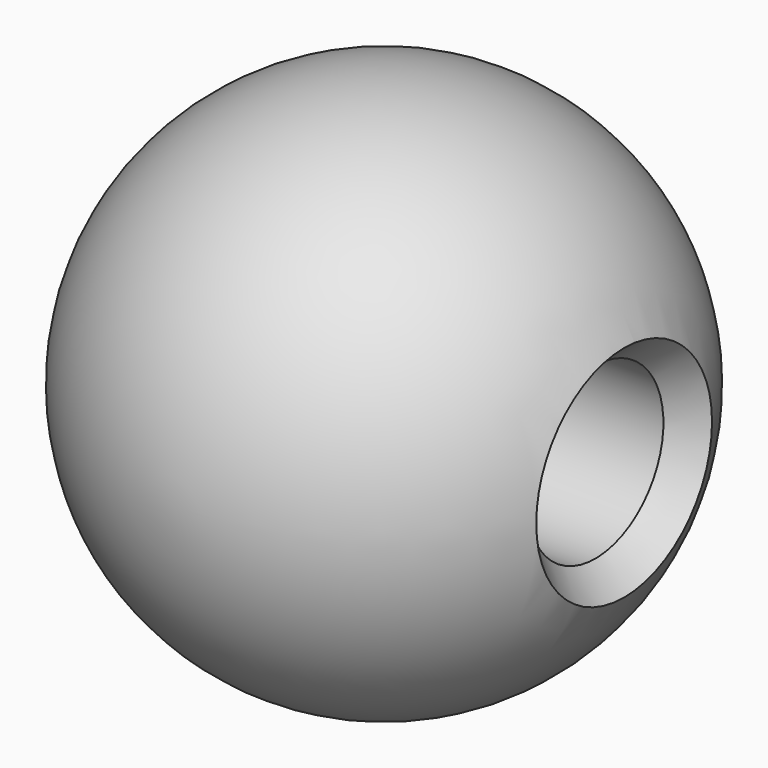
from build123d import *

# Parameters (mm, degrees)
F4_D           = 5.1054
F4_DEPTH       = 6.604
F4_START       = 0.7194185
F4_CSINK_D     = 6.604
F4_CSINK_ANGLE = 82
F4_TIP         = 1.5338169022


with BuildPart() as f1:
    # F0 (on Top) → F1 (revolve)
    with BuildSketch(Plane.XY):
        with BuildLine():
            Line((0, 7.9375), (0, -7.9375))
            ThreePointArc((0, -7.9375), (7.9375, 0), (0, 7.9375))
        make_face()
    revolve(axis=Axis((0, 0, 0), (0, -1, 0)))

    # F4
    # its depths count from where the whole tool has entered the part; down to there all is cleared
    with Locations(Plane.YZ.offset(7.9375).offset(-F4_START)):
        with Locations((0, 0)):
            CounterSinkHole(F4_D / 2, F4_CSINK_D / 2, depth=F4_DEPTH, counter_sink_angle=F4_CSINK_ANGLE)
            with Locations((0, 0, -(F4_DEPTH + F4_TIP / 2))):  # 118° drill point
                Cone(0, F4_D / 2, F4_TIP, mode=Mode.SUBTRACT)


solid = f1.part
